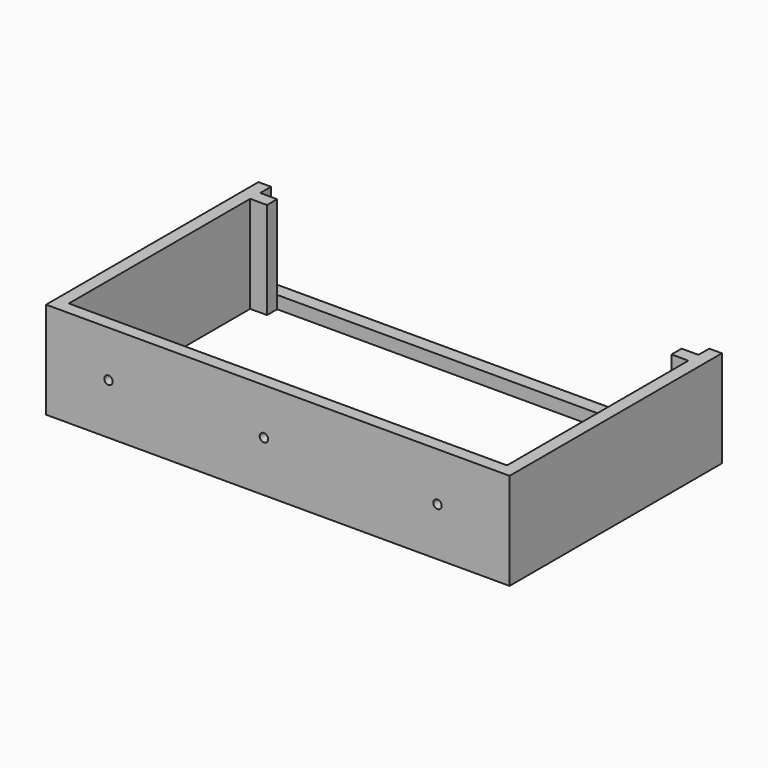
from build123d import *

# Parameters (mm, degrees)
F0_R      = 8
F1_DEPTH  = 3
F2_W      = 3
F2_H      = 3
F2_W_2    = 104
F3_DEPTH  = 20
F4_W      = 3
F4_H      = 20
F5_DEPTH  = 104.4
F6_W      = 96
F6_H      = 3
F7_DEPTH  = 40
F8_R      = 1.5
F9_DEPTH  = 3
F10_R     = 8
F12_DEPTH = 40
F13_R     = 1
F14_DEPTH = 3


with BuildPart() as f1:
    # F0 (on Top) → F1 (new body)
    with BuildSketch(Plane.XY):
        Polygon((-40, 33.034884), (-50, 33.034884), (-50, 18.034884), (-50, 0.034884), (-50, -2.965116), (-50, -17.965116), (-50, -29.965116), (60, -29.965116), (60, -24.965116), (60, -14.965116), (60, -9.965116), (60, -4.965116), (60, 0.034884), (60, 18.034884), (60, 33.034884), (40, 33.034884), (20, 33.034884), (0, 33.034884), (-20, 33.034884), align=None)
        with Locations((25, -0.468963)):
            Circle(F0_R, mode=Mode.SUBTRACT)
        with Locations((-15, 1.034884)):
            Circle(F0_R, mode=Mode.SUBTRACT)
    extrude(amount=F1_DEPTH)

    # F2 (on face) → F3 (join)
    with BuildSketch(Plane.XY.offset(3)):
        with Locations((-48.5, -28.465116)):
            Rectangle(F2_W, F2_H)
        with Locations((5, -28.465116)):
            Rectangle(F2_W_2, F2_H)
        Polygon((-50, 30.034884), (-50, -26.965116), (-47, -26.965116), (-47, 33.034884), (-50, 33.034884), align=None)
        with Locations((58.5, -28.465116)):
            Rectangle(F2_W, F2_H)
        Polygon((57, 33.034884), (57, -26.965116), (60, -26.965116), (60, 30.034884), (60, 33.034884), align=None)
    extrude(amount=F3_DEPTH)

    # F4 (on face) → F5 (join)
    with BuildSketch(Plane.YZ.offset(-47)):
        with Locations((28.334884, 13)):
            Rectangle(F4_W, F4_H)
    extrude(amount=F5_DEPTH)

    # F6 (on face) → F7 (cut)
    with BuildSketch(Plane.XY.offset(23)):
        with Locations((5, 28.334884)):
            Rectangle(F6_W, F6_H)
    extrude(amount=-F7_DEPTH, mode=Mode.SUBTRACT)

    # F8 (on face) → F9 (cut)
    with BuildSketch(Plane(origin=(0, -26.965116, 0), x_dir=(-1, 0, 0), z_dir=(0, 1, 0))):
        with Locations((17, 26.988985)):
            Circle(F8_R)
        with Locations((-27, 26.988985)):
            Circle(F8_R)
        with Locations((-20, 26.988985)):
            Circle(F8_R)
    extrude(amount=-F9_DEPTH, mode=Mode.SUBTRACT)

    # F10 (on face) → F12 (cut)
    with BuildSketch(Plane.XY.offset(3)):
        Polygon((53, 26.834884), (-43, 26.834884), (-47, 26.834884), (-47, -26.965116), (57, -26.965116), (57, 26.834884), align=None)
        with Locations((25, -0.468963)):
            Circle(F10_R, mode=Mode.SUBTRACT)
        with Locations((-15, 1.034884)):
            Circle(F10_R, mode=Mode.SUBTRACT)
    extrude(amount=-F12_DEPTH, mode=Mode.SUBTRACT)

    # F13 (on face) → F14 (cut)
    with BuildSketch(Plane.XZ.offset(29.965116)):
        with Locations((-35.19102, 12.040687)):
            Circle(F13_R)
        with Locations((1.695728, 12.003587)):
            Circle(F13_R)
        with Locations((42.899329, 11.5)):
            Circle(F13_R)
    extrude(amount=-F14_DEPTH, mode=Mode.SUBTRACT)


solid = f1.part
